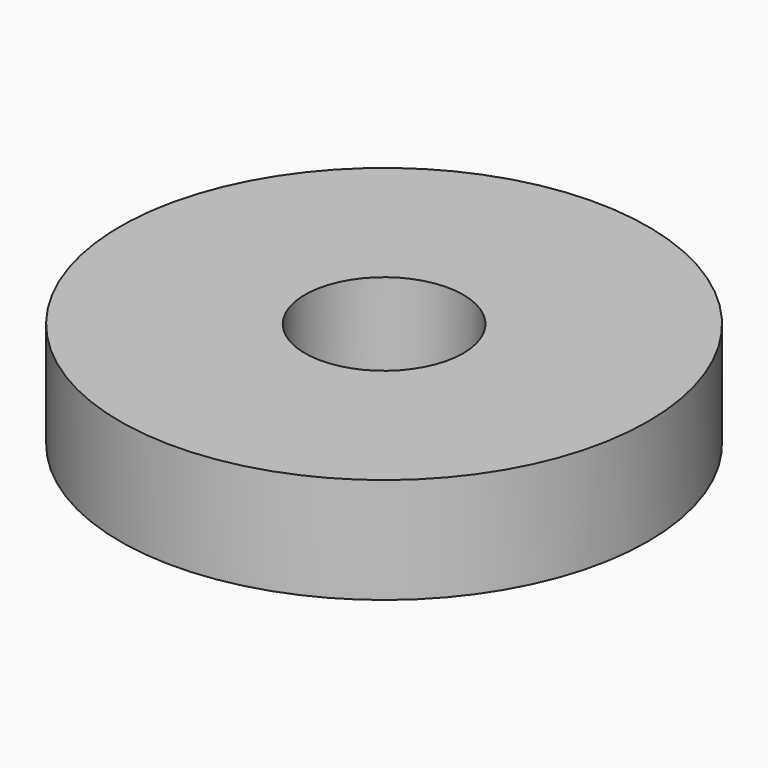
from build123d import *

# Parameters (mm, degrees)
SKETCH_R   = 5
SKETCH_R_2 = 1.5
PAD_DEPTH  = 2


with BuildPart() as part:
    # Sketch → Pad (new body)
    with BuildSketch(Plane.XY):
        Circle(SKETCH_R)
        Circle(SKETCH_R_2, mode=Mode.SUBTRACT)
    extrude(amount=PAD_DEPTH)


solid = part.part
